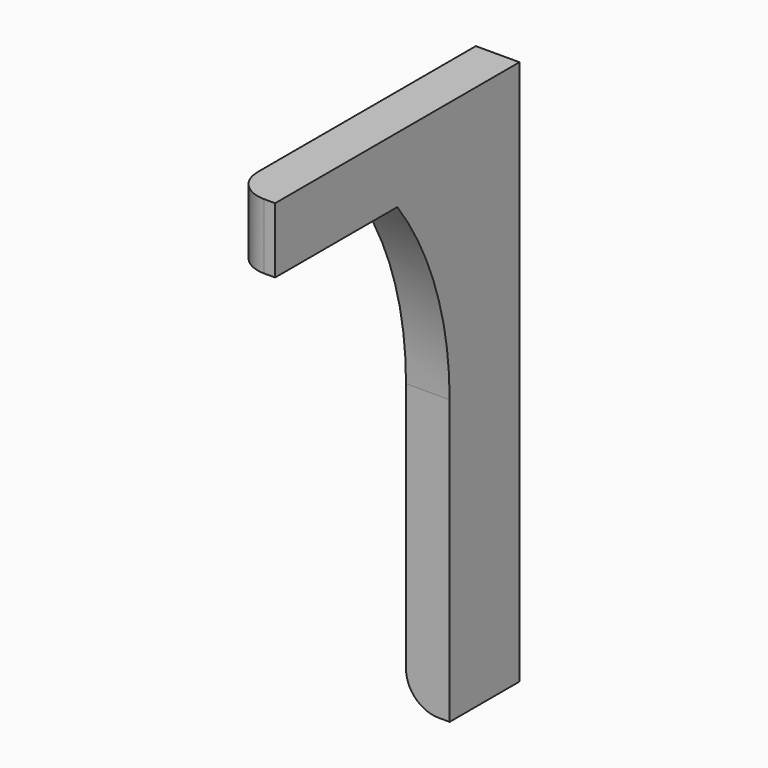
from build123d import *

# Parameters (mm, degrees)
BOX090_W          = 2
BOX090_H          = 4
BOX090_DEPTH      = 13
BOX091_W          = 2
BOX091_H          = 14
BOX091_DEPTH      = 3
CYLINDER045_R     = 15
CYLINDER045_DEPTH = 4
BOX089_W          = 2
BOX089_H          = 10
BOX089_DEPTH      = 9
FILLET011_R       = 1.5


with BuildPart() as cube080:
    # Box090 → Box090 (new body)
    with BuildSketch(Plane(origin=(-1, 46, -28), x_dir=(1, 0, 0), z_dir=(0, 0, 1))):
        with Locations((1, 2)):
            Rectangle(BOX090_W, BOX090_H)
    extrude(amount=BOX090_DEPTH)


with BuildPart() as cube081:
    # Box091 → Box091 (new body)
    with BuildSketch(Plane(origin=(-1, 36, -6), x_dir=(1, 0, 0), z_dir=(0, 0, 1))):
        with Locations((1, 7)):
            Rectangle(BOX091_W, BOX091_H)
    extrude(amount=BOX091_DEPTH)


with BuildPart() as cylinder129:
    # Cylinder045 → Cylinder045 (new body)
    with BuildSketch(Plane(origin=(0, 35, -15), x_dir=(0, 0, -1), z_dir=(1, 0, 0))):
        Circle(CYLINDER045_R)
    extrude(amount=CYLINDER045_DEPTH)


with BuildPart() as fillet011:
    # Box089 → Box089 (new body)
    with BuildSketch(Plane(origin=(1, 44, -15), x_dir=(1, 0, 0), z_dir=(0, 0, 1))):
        with Locations((1, 5)):
            Rectangle(BOX089_W, BOX089_H)
    extrude(amount=BOX089_DEPTH)

    # Cut036: cut Cylinder129
    add(cylinder129.part, mode=Mode.SUBTRACT)


with BuildPart() as fillet011_1:
    # Cut036 placement: moved
    add(fillet011.part.moved(Location((-2, -4, 0))))

    # Fusion031: union Cube080, Cube081
    add(cube080.part)
    add(cube081.part)

    # Fillet011
    fillet011_edges = [fillet011_1.edges().sort_by_distance(p)[0] for p in [
        (-1, 48, -28),
        (-1, 36, -4.5),
    ]]
    fillet(fillet011_edges, radius=FILLET011_R)


solid = fillet011_1.part
